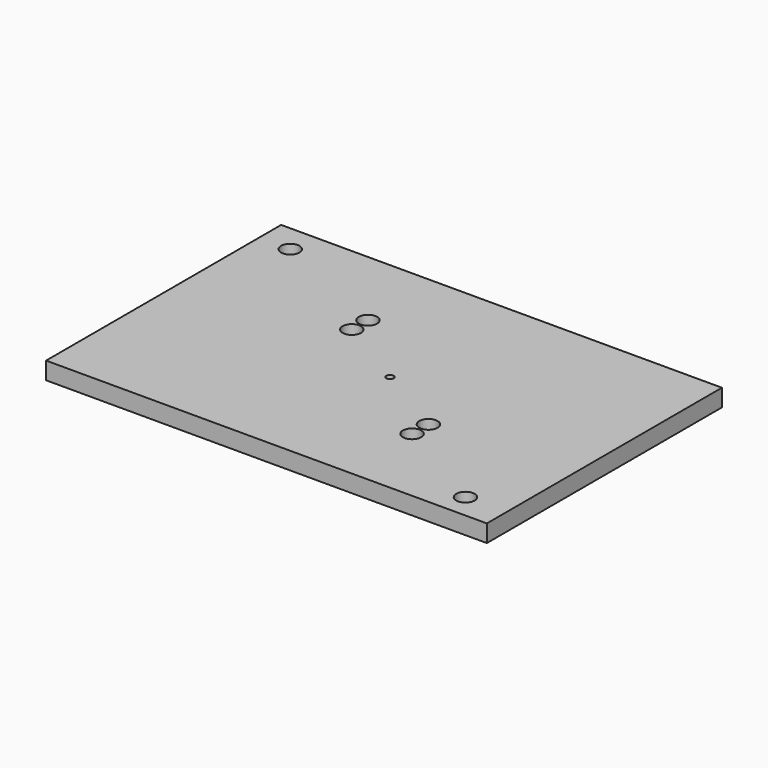
from build123d import *

# Parameters (mm, degrees)
F0_W     = 304.8
F0_H     = 203.2
F0_R     = 6.35
F1_DEPTH = 12
F3_D     = 5


with BuildPart() as f1:
    # F0 (on Top) → F1 (new body)
    with BuildSketch(Plane.XY):
        with Locations((-4.632816, 0.599919)):
            Rectangle(F0_W, F0_H)
        with Locations((119.592541, -84.271215)):
            Circle(F0_R, mode=Mode.SUBTRACT)
        with Locations((50.8, -44.45)):
            Circle(F0_R, mode=Mode.SUBTRACT)
        with Locations((50.8, -30.264465)):
            Circle(F0_R, mode=Mode.SUBTRACT)
        with Locations((-50.8, 30.48)):
            Circle(F0_R, mode=Mode.SUBTRACT)
        with Locations((-50.8, 44.45)):
            Circle(F0_R, mode=Mode.SUBTRACT)
        with Locations((-135.430858, 83.075233)):
            Circle(F0_R, mode=Mode.SUBTRACT)
    extrude(amount=-F1_DEPTH)

    # F3 (through all)
    with Locations(Plane.XY):
        with Locations((0, 0)):
            Hole(F3_D / 2)


solid = f1.part
